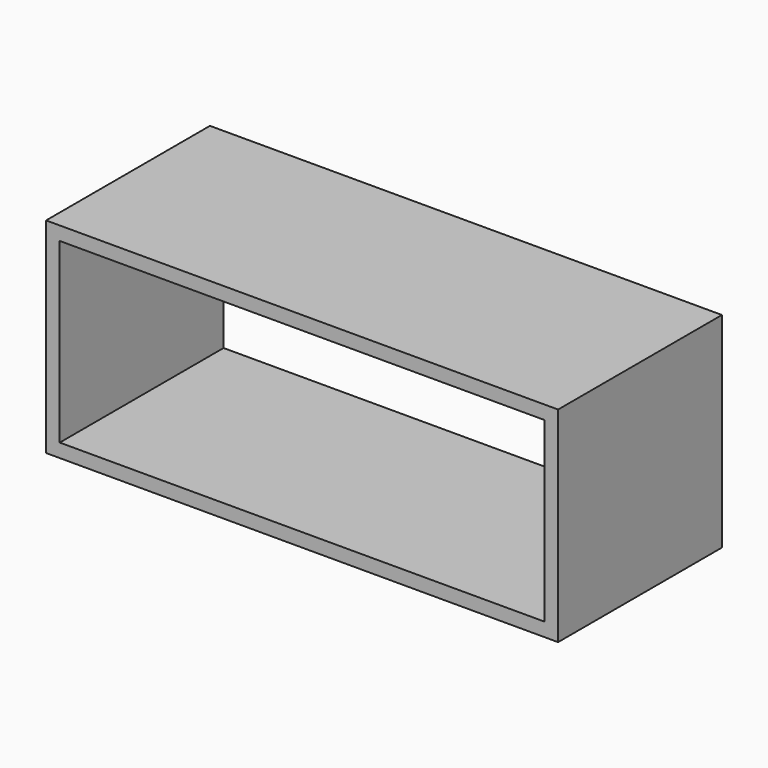
from build123d import *

# Parameters (mm, degrees)
F0_W     = 710
F0_H     = 20
F0_W_2   = 20
F0_H_2   = 260
F1_DEPTH = 300


with BuildPart() as f1:
    # F0 (on Front) → F1 (new body)
    with BuildSketch(Plane.XZ):
        with Locations((0, 140)):
            Rectangle(F0_W, F0_H)
        with Locations((-365, 140)):
            Rectangle(F0_W_2, F0_H)
        with Locations((-365, 0)):
            Rectangle(F0_W_2, F0_H_2)
        with Locations((-365, -140)):
            Rectangle(F0_W_2, F0_H)
        with Locations((0, -140)):
            Rectangle(F0_W, F0_H)
        with Locations((365, -140)):
            Rectangle(F0_W_2, F0_H)
        with Locations((365, 0)):
            Rectangle(F0_W_2, F0_H_2)
        with Locations((365, 140)):
            Rectangle(F0_W_2, F0_H)
    extrude(amount=-F1_DEPTH)


solid = f1.part
